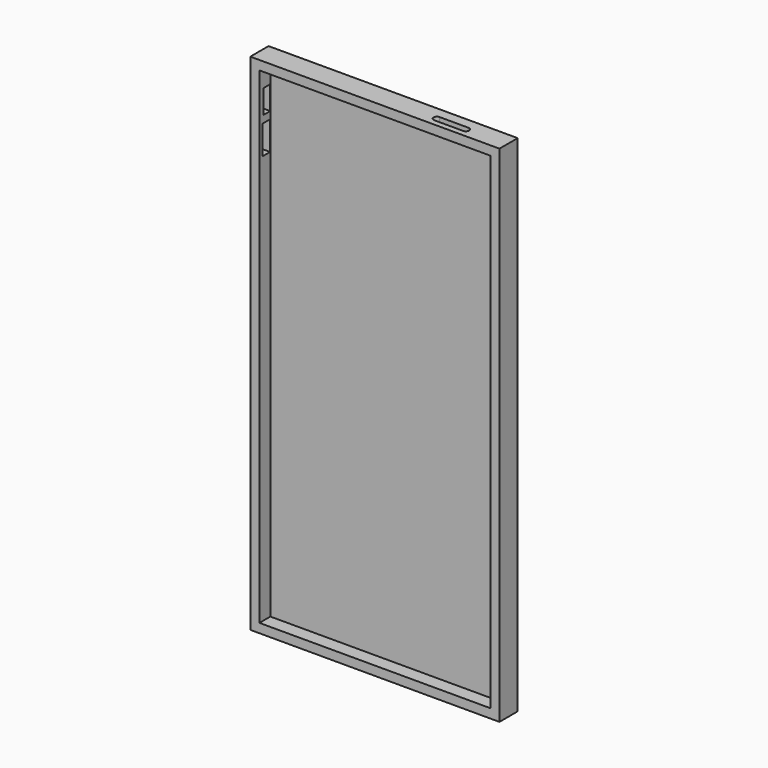
from build123d import *

# Parameters (mm, degrees)
F0_W     = 69.342
F0_H     = 140.462
F1_DEPTH = 6.35
F2_T     = -2.54
F4_DEPTH = 25.4
F5_W     = 2.2962929215
F5_H     = 6.5837949514
F5_W_2   = 2.5734174997
F5_H_2   = 7.9922676086
F6_DEPTH = 38.1


with BuildPart() as f1:
    # F0 (on Front) → F1 (new body)
    with BuildSketch(Plane.XZ):
        with Locations((0, 30.688280734)):
            Rectangle(F0_W, F0_H)
    extrude(amount=F1_DEPTH)

    # F2
    f2_openings = [f1.faces().sort_by_distance(p)[0] for p in [
        (0, -6.35, 30.688281),
    ]]
    offset(amount=F2_T, openings=f2_openings)

    # F3 (on face) → F4 (cut)
    with BuildSketch(Plane.XY.offset(100.919280734)):
        with BuildLine():
            ThreePointArc((23.2700649649, -4.7553493267), (22.3264960016, -3.8117803633), (23.2700649649, -2.8682114))
            Line((23.2700649649, -2.8682114), (15.2291525155, -2.8682114))
            ThreePointArc((15.2291525155, -2.8682114), (15.896356528, -3.1445763508), (16.1727214789, -3.8117803633))
            ThreePointArc((16.1727214789, -3.8117803633), (15.896356528, -4.4789843758), (15.2291525155, -4.7553493267))
            Line((15.2291525155, -4.7553493267), (23.2700649649, -4.7553493267))
        make_face()
        with BuildLine():
            ThreePointArc((24.2136339282, -3.8117803633), (23.9372689774, -3.1445763508), (23.2700649649, -2.8682114))
            Line((23.2700649649, -2.8682114), (23.2700649649, -4.7553493267))
            ThreePointArc((23.2700649649, -4.7553493267), (23.9372689774, -4.4789843758), (24.2136339282, -3.8117803633))
        make_face()
        with BuildLine():
            Line((23.2700649649, -4.7553493267), (23.2700649649, -2.8682114))
            ThreePointArc((23.2700649649, -2.8682114), (22.3264960016, -3.8117803633), (23.2700649649, -4.7553493267))
        make_face()
        with BuildLine():
            ThreePointArc((16.1727214789, -3.8117803633), (15.896356528, -3.1445763508), (15.2291525155, -2.8682114))
            Line((15.2291525155, -2.8682114), (15.2291525155, -4.7553493267))
            ThreePointArc((15.2291525155, -4.7553493267), (15.896356528, -4.4789843758), (16.1727214789, -3.8117803633))
        make_face()
        with BuildLine():
            Line((15.2291525155, -4.7553493267), (15.2291525155, -2.8682114))
            ThreePointArc((15.2291525155, -2.8682114), (14.2855835522, -3.8117803633), (15.2291525155, -4.7553493267))
        make_face()
    extrude(amount=-F4_DEPTH, mode=Mode.SUBTRACT)

    # F5 (on Right) → F6 (cut)
    with BuildSketch(Plane.YZ):
        with Locations((-3.7487103837, 90.1714488864)):
            Rectangle(F5_W, F5_H)
        with Locations((-3.9377002977, 80.8853507042)):
            Rectangle(F5_W_2, F5_H_2)
    extrude(amount=-F6_DEPTH, mode=Mode.SUBTRACT)


solid = f1.part
